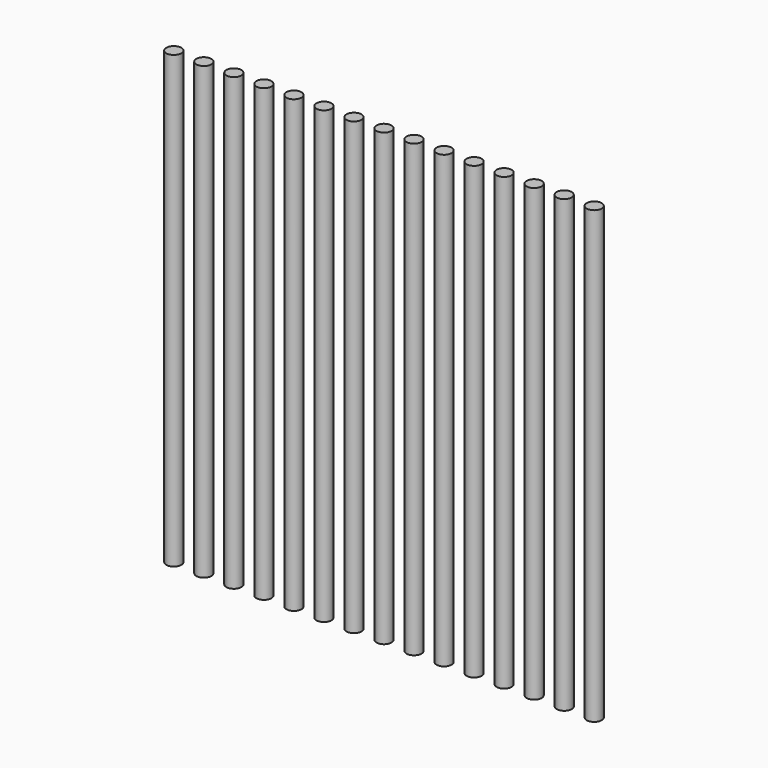
from build123d import *

# Parameters (mm, degrees)
F0_R     = 5
F1_DEPTH = 300


with BuildPart() as f1:
    # F0 (on Top) → F1 (new body)
    with BuildSketch(Plane.XY):
        with Locations((-94.022136, 13.340164)):
            Circle(F0_R)
        with Locations((-74.022136, 13.340164)):
            Circle(F0_R)
        with Locations((-54.022136, 13.340164)):
            Circle(F0_R)
        with Locations((-34.022132, 13.340164)):
            Circle(F0_R)
        with Locations((-14.022132, 13.340164)):
            Circle(F0_R)
        with Locations((5.977868, 13.340164)):
            Circle(F0_R)
        with Locations((25.977868, 13.340164)):
            Circle(F0_R)
        with Locations((45.977868, 13.340164)):
            Circle(F0_R)
        with Locations((65.977868, 13.340164)):
            Circle(F0_R)
        with Locations((85.977868, 13.340164)):
            Circle(F0_R)
        with Locations((105.977868, 13.340164)):
            Circle(F0_R)
        with Locations((125.977868, 13.340164)):
            Circle(F0_R)
        with Locations((145.977868, 13.340164)):
            Circle(F0_R)
        with Locations((165.977868, 13.340164)):
            Circle(F0_R)
        with Locations((185.977868, 13.340164)):
            Circle(F0_R)
    extrude(amount=F1_DEPTH)


solid = f1.part
